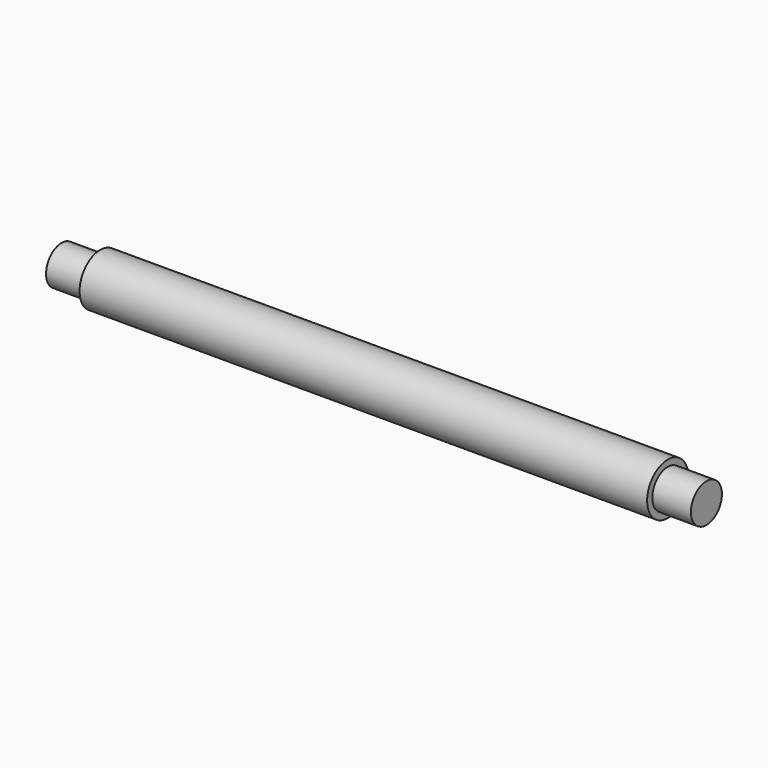
from build123d import *

# Parameters (mm, degrees)
F0_R          = 7.5
F1_DEPTH      = 15
F1_DEPTH_BACK = 235
F0_R_2        = 10
F2_DEPTH      = 220


with BuildPart() as f1:
    # F0 (on Right) → F1 (new body, two sides)
    with BuildSketch(Plane.YZ) as f1_sk:
        Circle(F0_R)
    extrude(amount=F1_DEPTH)
    extrude(f1_sk.sketch, amount=-F1_DEPTH_BACK)

    # F0 (on Right) → F2 (join)
    with BuildSketch(Plane.YZ):
        Circle(F0_R_2)
        Circle(F0_R, mode=Mode.SUBTRACT)
    extrude(amount=-F2_DEPTH)


solid = f1.part
